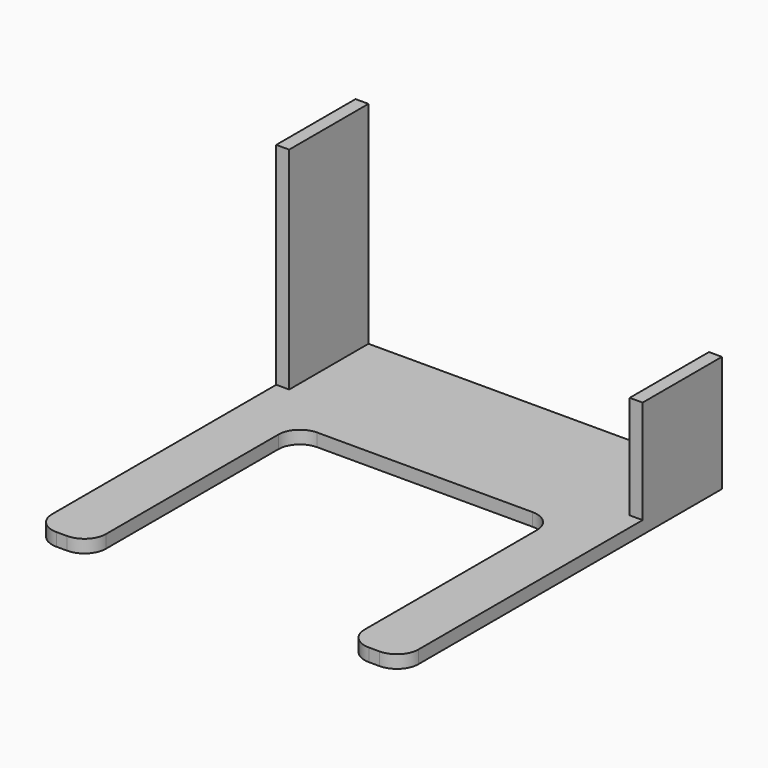
from build123d import *

# Parameters (mm, degrees)
F0_W     = 85
F0_H     = 23
F1_DEPTH = 3
F2_W     = 3
F2_H     = 23
F3_DEPTH = 24
F4_W     = 3
F4_H     = 23
F5_DEPTH = 25


with BuildPart() as f1:
    # F0 (on Top) → F1 (new body)
    with BuildSketch(Plane.XY):
        with Locations((42.5, 11.5)):
            Rectangle(F0_W, F0_H)
        with BuildLine():
            Line((85, 0), (0, 0))
            Line((0, 0), (0, -10))
            Line((0, -10), (0, -65))
            ThreePointArc((0, -65), (1.464466, -68.535534), (5, -70))
            Line((5, -70), (7.5, -70))
            ThreePointArc((7.5, -70), (11.035534, -68.535534), (12.5, -65))
            Line((12.5, -65), (12.5, -15))
            ThreePointArc((12.5, -15), (13.964466, -11.464466), (17.5, -10))
            Line((17.5, -10), (67.5, -10))
            ThreePointArc((67.5, -10), (71.035534, -11.464466), (72.5, -15))
            Line((72.5, -15), (72.5, -65))
            ThreePointArc((72.5, -65), (73.964466, -68.535534), (77.5, -70))
            Line((77.5, -70), (80, -70))
            ThreePointArc((80, -70), (83.535534, -68.535534), (85, -65))
            Line((85, -65), (85, -10))
            Line((85, -10), (85, 0))
        make_face()
    extrude(amount=F1_DEPTH)

    # F2 (on face) → F3 (join)
    with BuildSketch(Plane.XY.offset(3)):
        with Locations((1.5, 11.5)):
            Rectangle(F2_W, F2_H)
        with Locations((83.5, 11.5)):
            Rectangle(F2_W, F2_H)
    extrude(amount=F3_DEPTH)

    # F4 (on face) → F5 (join)
    with BuildSketch(Plane.XY.offset(27)):
        with Locations((1.5, 11.5)):
            Rectangle(F4_W, F4_H)
    extrude(amount=F5_DEPTH)


solid = f1.part
